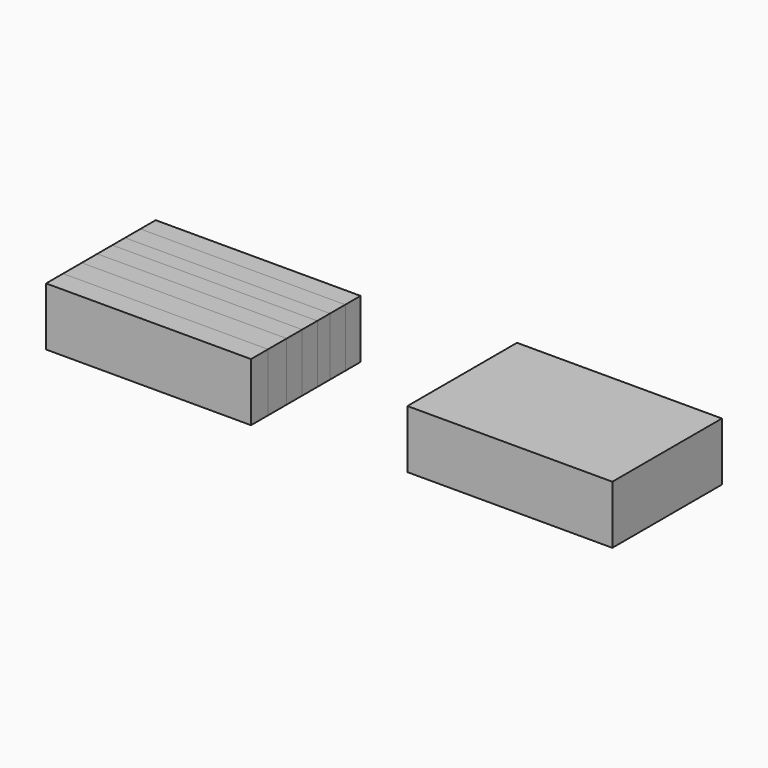
from build123d import *

# Parameters (mm, degrees)
F0_W     = 88.01288
F0_H     = 58.82726
F1_DEPTH = 25
F0_H_2   = 8.208456
F2_DEPTH = 25
F3_DEPTH = 25
F0_H_3   = 6.840379
F4_DEPTH = 25
F0_H_4   = 8.094443
F5_DEPTH = 25
F0_H_5   = 8.322465
F6_DEPTH = 25
F0_H_6   = 10.032556
F7_DEPTH = 25
F0_H_7   = 9.120506
F8_DEPTH = 25


with BuildPart() as f1:
    # F0 (on Top) → F1 (new body)
    with BuildSketch(Plane.XY):
        with Locations((86.302772, 8.094443)):
            Rectangle(F0_W, F0_H)
    extrude(amount=F1_DEPTH)


with BuildPart() as f2:
    # F0 (on Top) → F2 (new body)
    with BuildSketch(Plane.XY):
        with Locations((-63.957547, 27.247506)):
            Rectangle(F0_W, F0_H_2)
    extrude(amount=F2_DEPTH)


with BuildPart() as f3:
    # F0 (on Top) → F3 (new body)
    with BuildSketch(Plane.XY):
        with Locations((-63.957547, 19.03905)):
            Rectangle(F0_W, F0_H_2)
    extrude(amount=F3_DEPTH)


with BuildPart() as f4:
    # F0 (on Top) → F4 (new body)
    with BuildSketch(Plane.XY):
        with Locations((-63.957547, 11.514632)):
            Rectangle(F0_W, F0_H_3)
    extrude(amount=F4_DEPTH)


with BuildPart() as f5:
    # F0 (on Top) → F5 (new body)
    with BuildSketch(Plane.XY):
        with Locations((-63.957547, 4.047222)):
            Rectangle(F0_W, F0_H_4)
    extrude(amount=F5_DEPTH)


with BuildPart() as f6:
    # F0 (on Top) → F6 (new body)
    with BuildSketch(Plane.XY):
        with Locations((-63.957547, -4.161232)):
            Rectangle(F0_W, F0_H_5)
    extrude(amount=F6_DEPTH)


with BuildPart() as f7:
    # F0 (on Top) → F7 (new body)
    with BuildSketch(Plane.XY):
        with Locations((-63.957547, -13.338743)):
            Rectangle(F0_W, F0_H_6)
    extrude(amount=F7_DEPTH)


with BuildPart() as f8:
    # F0 (on Top) → F8 (new body)
    with BuildSketch(Plane.XY):
        with Locations((-63.957547, -22.915274)):
            Rectangle(F0_W, F0_H_7)
    extrude(amount=F8_DEPTH)


solid = Compound([f1.part, f2.part, f3.part, f4.part, f5.part, f6.part, f7.part, f8.part])
